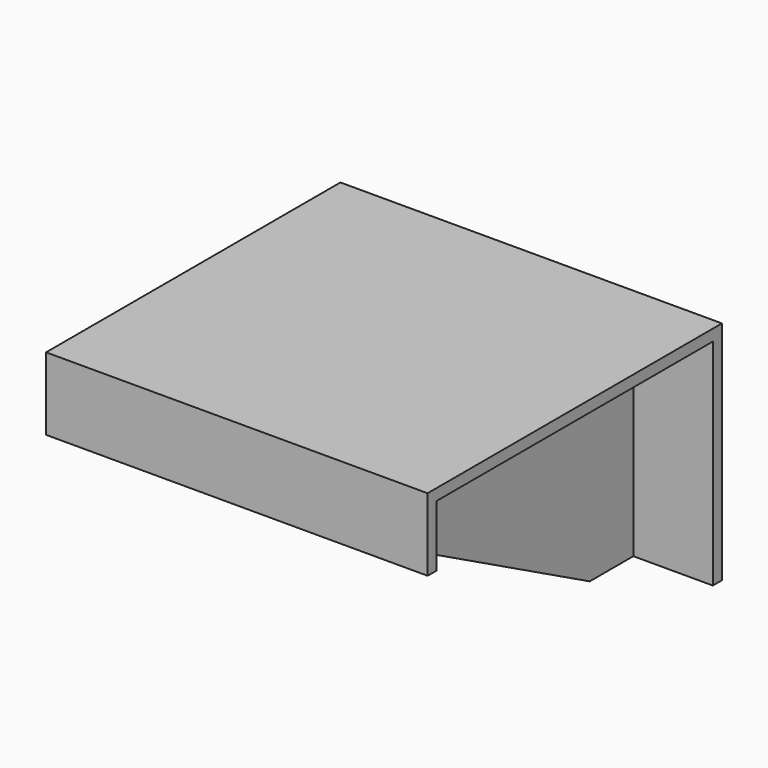
from build123d import *

# Parameters (mm, degrees)
F0_W     = 266.7
F0_H     = 158.12516
F1_DEPTH = 7.9375
F4_DEPTH = 241.3
F6_DEPTH = 211.1385
F8_W     = 266.7
F8_H     = 50.8
F9_DEPTH = 7.9375


with BuildPart() as f1:
    # F0 (on Front) → F1 (new body)
    with BuildSketch(Plane.XZ):
        with Locations((0, -79.06258)):
            Rectangle(F0_W, F0_H)
    extrude(amount=F1_DEPTH)

    # F3 (on face) → F4 (join)
    with BuildSketch(Plane.XZ.offset(7.9375)):
        Polygon((133.35, 0), (-133.35, 0), (-133.35, -7.9375), (-77.7875, -7.9375), (-77.7875, -158.12516), (-69.85, -158.12516), (-69.85, -7.9375), (69.85, -7.9375), (69.85, -158.12516), (77.7875, -158.12516), (77.7875, -7.9375), (133.35, -7.9375), align=None)
    extrude(amount=F4_DEPTH)

    # F5 (on face) → F6 (cut, through all)
    with BuildSketch(Plane(origin=(-77.7875, 0, 0), x_dir=(0, -1, 0), z_dir=(-1, 0, 0))):
        Polygon((249.2375, -50.8), (46.0375, -158.12516), (249.2375, -158.12516), align=None)
    extrude(amount=-F6_DEPTH, mode=Mode.SUBTRACT)

    # F8 (on face) → F9 (join)
    with BuildSketch(Plane.XZ.offset(249.2375)):
        with Locations((0, -25.4)):
            Rectangle(F8_W, F8_H)
    extrude(amount=F9_DEPTH)


solid = f1.part
